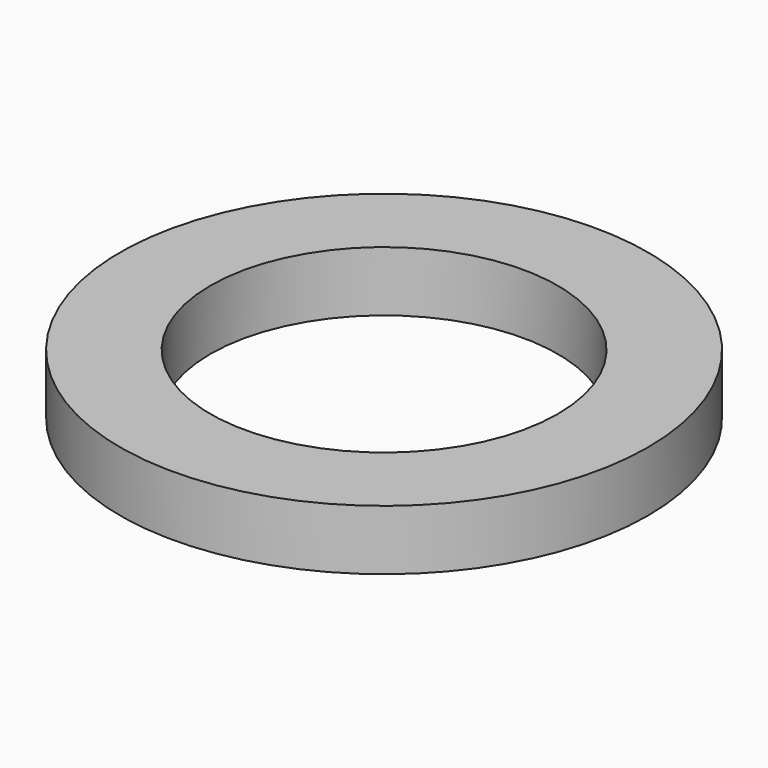
from build123d import *

# Parameters (mm, degrees)
CYLINDER036_R     = 2.6
CYLINDER036_DEPTH = 0.9
CYLINDER037_R     = 3.95
CYLINDER037_DEPTH = 0.9


with BuildPart() as cylinder037:
    # Cylinder036 → Cylinder036 (new body)
    with BuildSketch(Plane.XY):
        Circle(CYLINDER036_R)
    extrude(amount=CYLINDER036_DEPTH)


with BuildPart() as washer:
    # Cylinder037 → Cylinder037 (new body)
    with BuildSketch(Plane.XY):
        Circle(CYLINDER037_R)
    extrude(amount=CYLINDER037_DEPTH)

    # Cut022020015: cut Cylinder037
    add(cylinder037.part, mode=Mode.SUBTRACT)


with BuildPart() as washer_1:
    # Cut022020015 placement: moved
    add(washer.part.moved(Location((0, 32, 0))))


solid = washer_1.part
